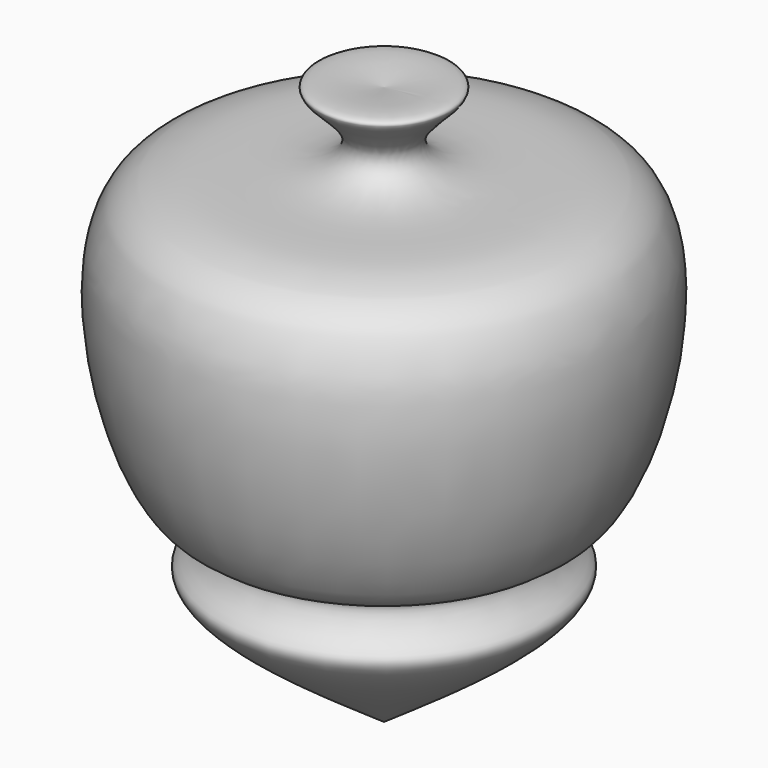
from build123d import *


with BuildPart() as f1:
    # F0 (on Front) → F1 (revolve)
    with BuildSketch(Plane.XZ):
        with BuildLine():
            add(Edge.make_bspline(
                [(0, 50.0001197021), (6.0381704753, 50.7668064068), (17.432643528, 52.2136007681), (2.3245075708, 42.4365974639), (12.7882161515, 33.3252749706), (51.769912055, 42.8851082182), (38.1283320586, -19.3132155035), (24.6946227908, -17.4465664876), (27.5515587293, -24.0705169273), (34.359248178, -27.7785278349), (14.8067968435, -41.3342911141), (0, -51.5998802979)],
                knots=[0, 0, 0, 0, 0.0994266582, 0.1876254376, 0.2720138094, 0.423984597, 0.6193808166, 0.7012170064, 0.7633344692, 0.8207765168, 1, 1, 1, 1], degree=3))
            Line((0, 50.0001197021), (0, -51.5998802979))
        make_face()
    revolve(axis=Axis((0, 0, -0.7998802979), (0, 0, -1)))


solid = f1.part
